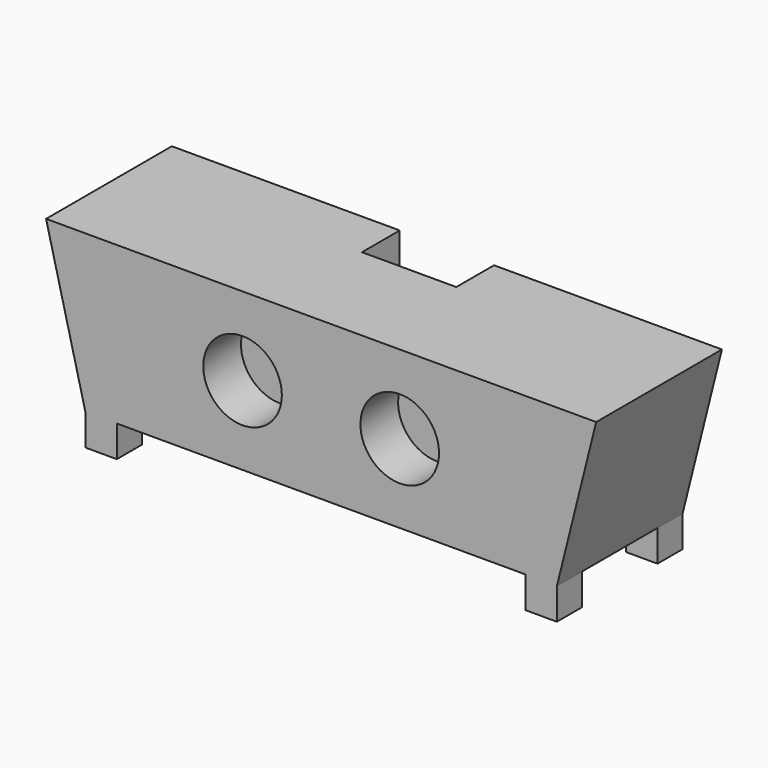
from build123d import *

# Parameters (mm, degrees)
F1_DEPTH  = 100
F2_R      = 25
F3_DEPTH  = 30
F4_R      = 25
F5_DEPTH  = 30
F7_DEPTH  = 30
F10_W     = 20
F10_H     = 20
F11_DEPTH = 20


with BuildPart() as f1:
    # F0 (on Front) → F1 (new body)
    with BuildSketch(Plane.XZ):
        Polygon((-150, -50), (150, -50), (175, 50), (150, 50), (-150, 50), (-175, 50), align=None)
    extrude(amount=-F1_DEPTH)

    # F2 (on face) → F3 (cut)
    with BuildSketch(Plane.XZ):
        with Locations((50, 0)):
            Circle(F2_R)
        with Locations((-50, 0)):
            Circle(F2_R)
    extrude(amount=-F3_DEPTH, mode=Mode.SUBTRACT)

    # F4 (on face) → F5 (cut)
    with BuildSketch(Plane(origin=(0, 0, -50), x_dir=(1, 0, 0), z_dir=(0, 0, -1))):
        with Locations((0, -50)):
            Circle(F4_R)
    extrude(amount=-F5_DEPTH, mode=Mode.SUBTRACT)

    # F6 (on face) → F7 (cut)
    with BuildSketch(Plane.XY.offset(50)):
        Polygon((30, 100), (0, 100), (-30, 100), (-30, 70), (30, 70), align=None)
    extrude(amount=-F7_DEPTH, mode=Mode.SUBTRACT)

    # F10 (on face) → F11 (join)
    with BuildSketch(Plane(origin=(0, 0, -50), x_dir=(1, 0, 0), z_dir=(0, 0, -1))):
        with Locations((140, -10)):
            Rectangle(F10_W, F10_H)
        with Locations((140, -90)):
            Rectangle(F10_W, F10_H)
        with Locations((-140, -90)):
            Rectangle(F10_W, F10_H)
        with Locations((-140, -10)):
            Rectangle(F10_W, F10_H)
    extrude(amount=F11_DEPTH)


solid = f1.part
